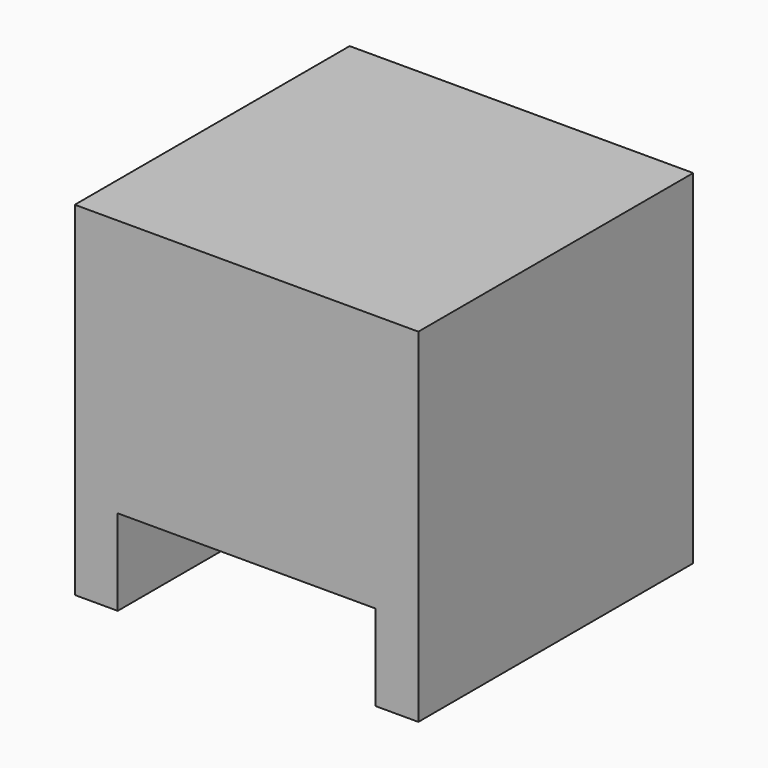
from build123d import *

# Parameters (mm, degrees)
F0_W     = 20
F0_H     = 20
F1_DEPTH = 20
F2_W     = 15
F2_H     = 15
F3_DEPTH = 5


with BuildPart() as f1:
    # F0 (on Top) → F1 (new body)
    with BuildSketch(Plane.XY):
        with Locations((-10, 10)):
            Rectangle(F0_W, F0_H)
    extrude(amount=F1_DEPTH)

    # F2 (on Top) → F3 (cut)
    with BuildSketch(Plane.XY):
        with Locations((-10, 7.5)):
            Rectangle(F2_W, F2_H)
    extrude(amount=F3_DEPTH, mode=Mode.SUBTRACT)


solid = f1.part
